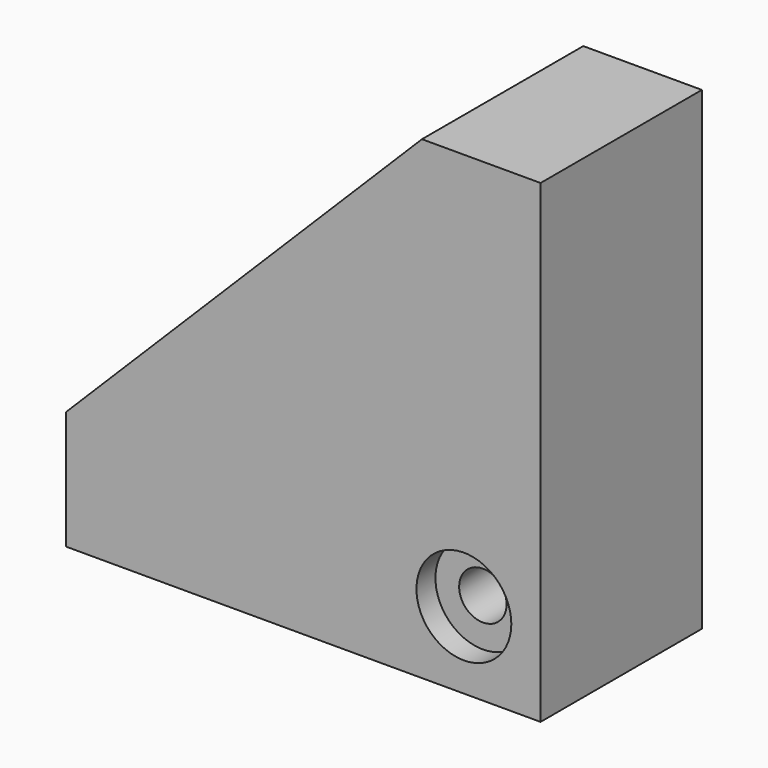
from build123d import *

# Parameters (mm, degrees)
F1_DEPTH = 6
F3_DEPTH = 2.5
F4_R     = 1
F5_DEPTH = 8.501
F6_R     = 2
F7_DEPTH = 1


with BuildPart() as f1:
    # F0 (on Front) → F1 (new body)
    with BuildSketch(Plane.XZ):
        Polygon((3, -2), (3, 18), (-2, 18), (-2, 3), (-17, 3), (-17, -2), align=None)
    extrude(amount=F1_DEPTH)

    # F2 (on face) → F3 (join)
    with BuildSketch(Plane.XZ.offset(6)):
        Polygon((-2, 18), (-17, 3), (-17, -2), (3, -2), (3, 18), align=None)
    extrude(amount=F3_DEPTH)

    # F4 (on face) → F5 (cut, through all)
    with BuildSketch(Plane(origin=(0, 0, 0), x_dir=(-1, 0, 0), z_dir=(0, 1, 0))):
        with Locations((0.232233, 1.232233)):
            Circle(F4_R)
    extrude(amount=-F5_DEPTH, mode=Mode.SUBTRACT)

    # F6 (on face) → F7 (cut)
    with BuildSketch(Plane.XZ.offset(8.5)):
        with Locations((-0.232233, 1.232233)):
            Circle(F6_R)
    extrude(amount=-F7_DEPTH, mode=Mode.SUBTRACT)


solid = f1.part
